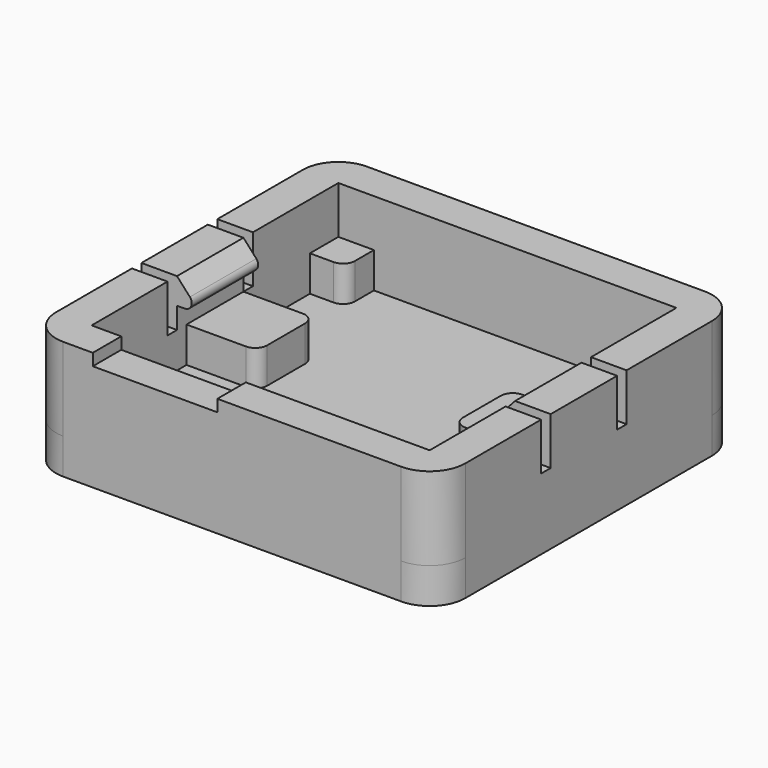
from build123d import *

# Parameters (mm, degrees)
F1_W      = 34.5
F1_H      = 32
F2_DEPTH  = 3
F3_R      = 3
F4_W      = 28.5
F4_H      = 26
F5_DEPTH  = 7
F6_W      = 6
F6_H      = 6
F6_W_2    = 3
F6_H_2    = 3
F7_DEPTH  = 3
F8_W      = 10.5
F8_H      = 1
F9_DEPTH  = 3
F10_W     = 1
F10_H     = 4
F11_DEPTH = 34.5
F13_DEPTH = 7
F14_R     = 1
F15_R     = 0.6


with BuildPart() as f2:
    # F1 (on Top) → F2 (new body)
    with BuildSketch(Plane.XY):
        Rectangle(F1_W, F1_H)
    extrude(amount=F2_DEPTH)

    # F3
    f3_edges = [f2.edges().sort_by_distance(p)[0] for p in [
        (17.25, -16, 1.5),
        (-17.25, -16, 1.5),
        (17.25, 16, 1.5),
        (-17.25, 16, 1.5),
    ]]
    fillet(f3_edges, radius=F3_R)

    # F4 (on face) → F5 (join)
    with BuildSketch(Plane.XY.offset(3)):
        with BuildLine():
            ThreePointArc((14.25, -16), (16.3713203436, -15.1213203436), (17.25, -13))
            Line((17.25, -13), (17.25, 13))
            ThreePointArc((17.25, 13), (16.3713203436, 15.1213203436), (14.25, 16))
            Line((14.25, 16), (-14.25, 16))
            ThreePointArc((-14.25, 16), (-16.3713203436, 15.1213203436), (-17.25, 13))
            Line((-17.25, 13), (-17.25, -13))
            ThreePointArc((-17.25, -13), (-16.3713203436, -15.1213203436), (-14.25, -16))
            Line((-14.25, -16), (14.25, -16))
        make_face()
        Rectangle(F4_W, F4_H, mode=Mode.SUBTRACT)
    extrude(amount=F5_DEPTH)

    # F6 (on face) → F7 (join)
    with BuildSketch(Plane.XY.offset(3)):
        with Locations((-11.25, 0)):
            Rectangle(F6_W, F6_H)
        with Locations((11.25, 0)):
            Rectangle(F6_W, F6_H)
        with Locations((-12.75, 11.5)):
            Rectangle(F6_W_2, F6_H_2)
        with Locations((12.75, 11.5)):
            Rectangle(F6_W_2, F6_H_2)
        with Locations((-12.75, -11.5)):
            Rectangle(F6_W_2, F6_H_2)
        with Locations((12.75, -11.5)):
            Rectangle(F6_W_2, F6_H_2)
    extrude(amount=F7_DEPTH)

    # F8 (on face) → F9 (cut, through all)
    with BuildSketch(Plane.XZ.offset(16)):
        with Locations((-6.5, 9.5)):
            Rectangle(F8_W, F8_H)
    extrude(amount=-F9_DEPTH, mode=Mode.SUBTRACT)

    # F10 (on face) → F11 (cut, through all)
    with BuildSketch(Plane.YZ.offset(17.25)):
        with Locations((-4.5, 8)):
            Rectangle(F10_W, F10_H)
        with Locations((3.5, 8)):
            Rectangle(F10_W, F10_H)
    extrude(amount=-F11_DEPTH, mode=Mode.SUBTRACT)

    # F12 (on face) → F13 (join, through all)
    with BuildSketch(Plane(origin=(0, 3, 0), x_dir=(-1, 0, 0), z_dir=(0, 1, 0))):
        Polygon((-14.25, 10), (-14.25, 7.8), (-12.25, 7.8), align=None)
        Polygon((14.25, 10), (12.25, 7.8), (14.25, 7.8), align=None)
    extrude(amount=-F13_DEPTH)

    # F14
    f14_edges = [f2.edges().sort_by_distance(p)[0] for p in [
        (8.25, 3, 4.5),
        (8.25, -3, 4.5),
        (11.25, -10, 4.5),
        (11.25, 10, 4.5),
        (-11.25, -10, 4.5),
        (-11.25, 10, 4.5),
        (-8.25, 3, 4.5),
        (-8.25, -3, 4.5),
    ]]
    fillet(f14_edges, radius=F14_R)

    # F15
    f15_edges = [f2.edges().sort_by_distance(p)[0] for p in [
        (12.25, -0.5, 7.8),
        (-12.25, -0.5, 7.8),
    ]]
    fillet(f15_edges, radius=F15_R)


solid = f2.part
